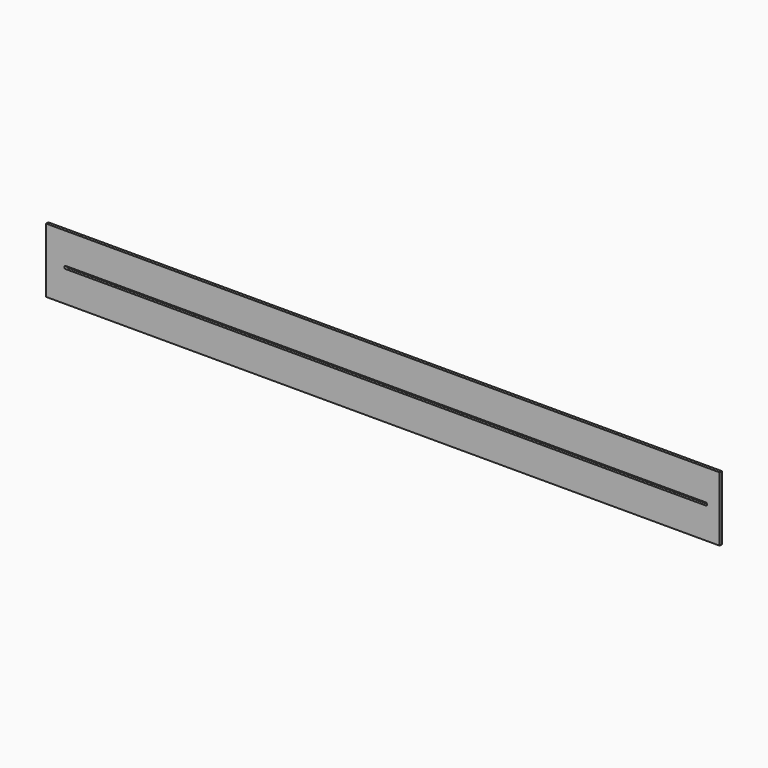
from build123d import *

# Parameters (mm, degrees)
F1_DEPTH = 12.7


with BuildPart() as f1:
    # F0 (on Front) → F1 (new body)
    with BuildSketch(Plane.XZ):
        with BuildLine():
            Line((1524, 146.05), (-1524, 146.05))
            Line((-1524, 146.05), (-1524, 0))
            Line((-1524, 0), (-1441.45, 0))
            ThreePointArc((-1441.45, 0), (-1439.590037, 4.490219), (-1435.099743, 6.35))
            Line((-1435.099743, 6.35), (1459.284832, 6.232645))
            ThreePointArc((1459.284832, 6.232645), (1464.537709, 4.90096), (1466.85, 0))
            Line((1466.85, 0), (1524, 0))
            Line((1524, 0), (1524, 146.05))
        make_face()
        with BuildLine():
            Line((-1441.45, 0), (-1524, 0))
            Line((-1524, 0), (-1524, -146.05))
            Line((-1524, -146.05), (1524, -146.05))
            Line((1524, -146.05), (1524, 0))
            Line((1524, 0), (1466.85, 0))
            ThreePointArc((1466.85, 0), (1464.990127, -4.490129), (1460.499996, -6.35))
            Line((1460.499996, -6.35), (-1434.946474, -6.348144))
            ThreePointArc((-1434.946474, -6.348144), (-1435.100004, -6.35), (-1435.253534, -6.348144))
            ThreePointArc((-1435.253534, -6.348144), (-1439.644086, -4.435513), (-1441.45, 0))
        make_face()
    extrude(amount=F1_DEPTH)


solid = f1.part
